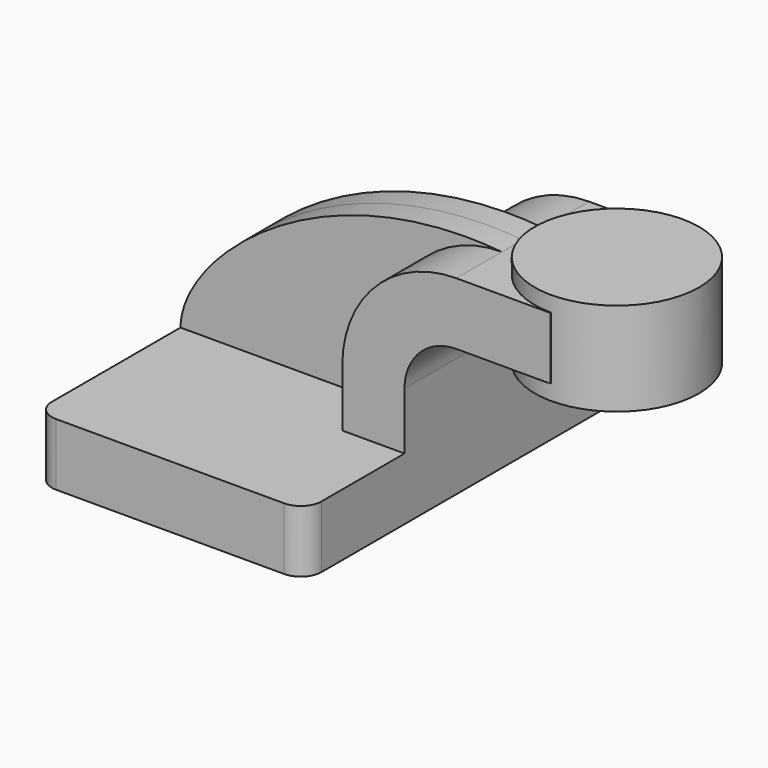
from build123d import *

# Parameters (mm, degrees)
F1_DEPTH = 63.5
F0_W     = 25.6538060188
F0_H     = 19.05
F2_DEPTH = 25.4
F3_DEPTH = 7.9375
F5_R     = 6.35


with BuildPart() as f1:
    # F0 (on Front) → F1 (new body, symmetric)
    with BuildSketch(Plane.XZ):
        Polygon((22.225, 9.525), (-41.275, 9.525), (-41.275, -9.525), (41.275, -9.525), (41.275, 9.525), align=None)
    extrude(amount=F1_DEPTH, both=True)

    # F0 (on Front) → F2 (join, symmetric)
    with BuildSketch(Plane.XZ):
        with Locations((73.1519030094, 52.4002)):
            Rectangle(F0_W, F0_H)
        with BuildLine():
            Line((22.225, 27.0002), (22.225, 9.525))
            Line((22.225, 9.525), (41.275, 9.525))
            Line((41.275, 9.525), (41.275, 27.0002))
            ThreePointArc((41.275, 27.0002), (45.9246798487, 38.2255201513), (57.15, 42.8752))
            Line((57.15, 42.8752), (60.325, 42.8752))
            Line((60.325, 42.8752), (60.325, 61.9252))
            Line((60.325, 61.9252), (57.15, 61.9252))
            ThreePointArc((57.15, 61.9252), (32.4542956671, 51.6959043329), (22.225, 27.0002))
        make_face()
    extrude(amount=F2_DEPTH, both=True)

    # F0 (on Front) → F3 (join, symmetric)
    with BuildSketch(Plane.XZ):
        with BuildLine():
            add(Edge.make_bspline(
                [(-41.275, 9.525), (-41.1863140762, 29.6085979789), (0, 67.188732326), (57.15, 61.9252)],
                knots=[0, 0, 0, 0, 111.5045361635, 111.5045361635, 111.5045361635, 111.5045361635], degree=3))
            Line((-41.275, 9.525), (22.225, 9.525))
            Line((22.225, 9.525), (22.225, 27.0002))
            ThreePointArc((22.225, 27.0002), (32.4542956671, 51.6959043329), (57.15, 61.9252))
        make_face()
    extrude(amount=F3_DEPTH, both=True)

    # F0 (on Front) → F4 (revolve)
    with BuildSketch(Plane.XZ):
        Polygon((85.9788060188, 66.675), (85.9788060188, 61.9252), (85.9788060188, 42.8752), (85.9788060188, 38.1), (111.125, 38.1), (111.125, 66.675), align=None)
    revolve(axis=Axis((85.9788060188, 0, 54.7751), (0, 0, -1)))

    # F5
    f5_edges = [f1.edges().sort_by_distance(p)[0] for p in [
        (41.275, -63.5, 0),
        (-41.275, -63.5, 0),
        (41.275, 63.5, 0),
        (-41.275, 63.5, 0),
    ]]
    fillet(f5_edges, radius=F5_R)


solid = f1.part
